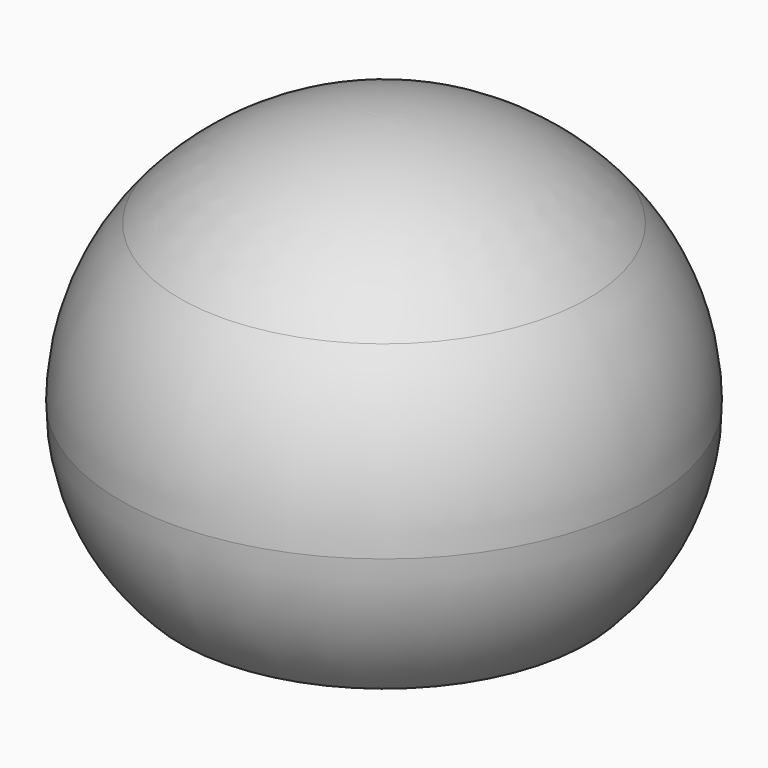
from build123d import *

# Parameters (mm, degrees)
F2_R = 1.2
F3_R = 1.5


with BuildPart() as f1:
    # F0 (on Front) → F1 (revolve)
    with BuildSketch(Plane.XZ):
        with BuildLine():
            ThreePointArc((-3.15, 22.16552), (-3.90524, 21.982717), (-4.65, 21.761048))
            Line((-4.65, 21.761048), (-4.65, 17.66552))
            Line((-4.65, 17.66552), (-3.15, 17.66552))
            Line((-3.15, 17.66552), (-3.15, 22.16552))
        make_face()
        with BuildLine():
            ThreePointArc((-13.228961, 14.570686), (-9.635333, 18.996102), (-4.65, 21.761048))
            ThreePointArc((-4.65, 21.761048), (-3.90524, 21.982717), (-3.15, 22.16552))
            ThreePointArc((-3.15, 22.16552), (-1.583854, 22.416145), (0, 22.5))
            Line((0, 22.5), (0, 24))
            ThreePointArc((0, 24), (-6.788722, 22.538725), (-12.374997, 18.413728))
            ThreePointArc((-12.374997, 18.413728), (-15.063507, 13.949402), (-16, 8.822876))
            ThreePointArc((-16, 8.822876), (-15.052804, 4.049751), (-12.354765, 0))
            Line((-12.354765, 0), (-10.560231, 0))
            ThreePointArc((-10.560231, 0), (-12.03424, 1.416341), (-13.228961, 3.075066))
            ThreePointArc((-13.228961, 3.075066), (-14.668651, 8.822876), (-13.228961, 14.570686))
        make_face()
    revolve(axis=Axis((0, 0, 23.25), (0, 0, -1)))

    # F2
    f2_edges = [f1.edges().sort_by_distance(p)[0] for p in [
        (3.15, 0, 17.66552),
    ]]
    fillet(f2_edges, radius=F2_R)

    # F3
    f3_edges = [f1.edges().sort_by_distance(p)[0] for p in [
        (4.65, 0, 21.761048),
    ]]
    fillet(f3_edges, radius=F3_R)


solid = f1.part
